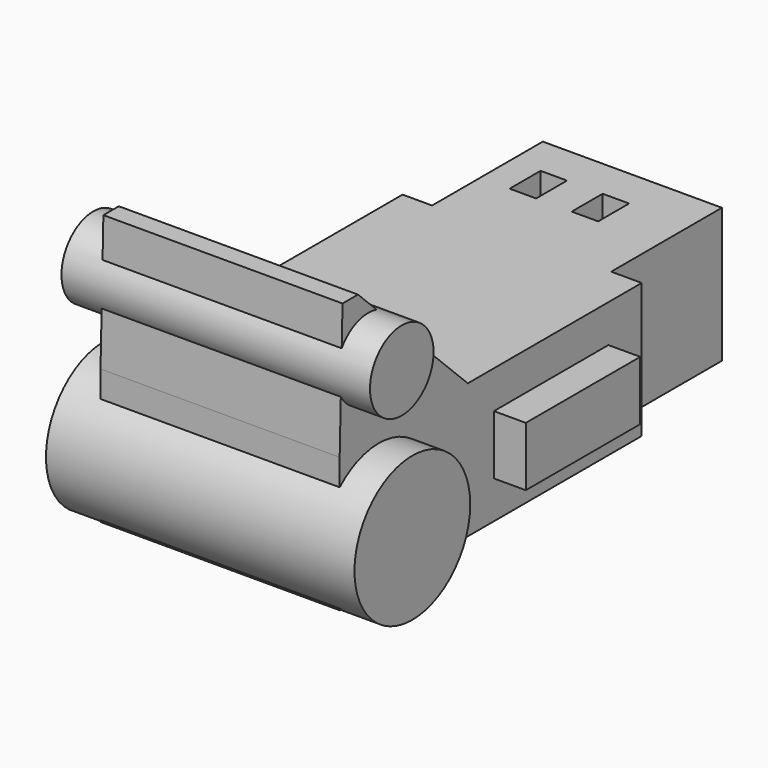
from build123d import *

# Parameters (mm, degrees)
F0_W          = 33.7692135945
F0_H          = 26.0943928733
F0_W_2        = 4.9886330962
F0_H_2        = 7.2910804302
F0_W_3        = 45.0895689428
F0_H_3        = 28.9724431932
F1_DEPTH      = 25.4
F3_DEPTH      = 45.0895689428
F4_R          = 7.4927788442
F4_R_2        = 13.6349594123
F5_DEPTH      = 35.306
F5_DEPTH_BACK = 22.86
F6_DEPTH      = 25.4
F8_DEPTH      = 22.861
F8_DEPTH_BACK = 35.307
F11_W         = 4.9897357821
F11_H         = 26.1090615085
F11_W_2       = 6.0124509037
F11_H_2       = 26.9668074491
F12_DEPTH     = 5.588


with BuildPart() as f1:
    # F0 (on Top) → F1 (new body)
    with BuildSketch(Plane.XY):
        with Locations((6.3317283057, 27.245614212)):
            Rectangle(F0_W, F0_H)
        with Locations((-2.4943165481, 29.164317064)):
            Rectangle(F0_W_2, F0_H_2, mode=Mode.SUBTRACT)
        with Locations((9.2097842135, 29.164317064)):
            Rectangle(F0_W_2, F0_H_2, mode=Mode.SUBTRACT)
        Polygon((23.2163351029, 14.1984177753), (-10.5528784916, 14.1984177753), (-16.1171220243, 14.1984177753), (-16.1171220243, -28.0130952597), (28.9724469185, -28.0130952597), (28.9724469185, 14.1984177753), align=None)
        with Locations((6.4276624471, -42.4993168563)):
            Rectangle(F0_W_3, F0_H_3)
    extrude(amount=F1_DEPTH)

    # F2 (on face) → F3 (join, through all)
    with BuildSketch(Plane(origin=(-16.1171220243, 0, 0), x_dir=(0, -1, 0), z_dir=(-1, 0, 0))):
        Polygon((56.2180615962, 54.1074834764), (26.784285903, 25.4), (56.9855384529, 25.4), align=None)
    extrude(amount=-F3_DEPTH)

    # F4 (on Right) → F5 (join, two sides)
    with BuildSketch(Plane.YZ) as f5_sk:
        with Locations((-50.2700731158, 39.1415841877)):
            Circle(F4_R)
        with Locations((-47.7757565677, 10.3610064834)):
            Circle(F4_R_2)
    extrude(amount=F5_DEPTH)
    extrude(f5_sk.sketch, amount=-F5_DEPTH_BACK)

    # F0 (on Top) → F6 (join)
    with BuildSketch(Plane.XY):
        with Locations((6.3317283057, 27.245614212)):
            Rectangle(F0_W, F0_H)
        with Locations((-2.4943165481, 29.164317064)):
            Rectangle(F0_W_2, F0_H_2, mode=Mode.SUBTRACT)
        with Locations((9.2097842135, 29.164317064)):
            Rectangle(F0_W_2, F0_H_2, mode=Mode.SUBTRACT)
        Polygon((23.2163351029, 14.1984177753), (-10.5528784916, 14.1984177753), (-16.1171220243, 14.1984177753), (-16.1171220243, -28.0130952597), (28.9724469185, -28.0130952597), (28.9724469185, 14.1984177753), align=None)
        with Locations((6.4276624471, -42.4993168563)):
            Rectangle(F0_W_3, F0_H_3)
    extrude(amount=F6_DEPTH)

    # F7 (on Right) → F8 (cut, two sides)
    with BuildSketch(Plane.YZ) as f8_sk:
        Polygon((-56.4099289477, 54.4912219048), (-56.4099289477, 50.6538152695), (-52.3806512356, 50.6538152695), align=None)
    extrude(amount=-F8_DEPTH, mode=Mode.SUBTRACT)
    extrude(f8_sk.sketch, amount=F8_DEPTH_BACK, mode=Mode.SUBTRACT)

    # F11 (on plane+point) → F12 (join, symmetric)
    with BuildSketch(Plane.XY.offset(12.7)):
        with Locations((-18.6119899154, -6.034891739)):
            Rectangle(F11_W, F11_H)
        with Locations((31.9786723703, -7.1516768159)):
            Rectangle(F11_W_2, F11_H_2)
    extrude(amount=F12_DEPTH, both=True)


solid = f1.part
